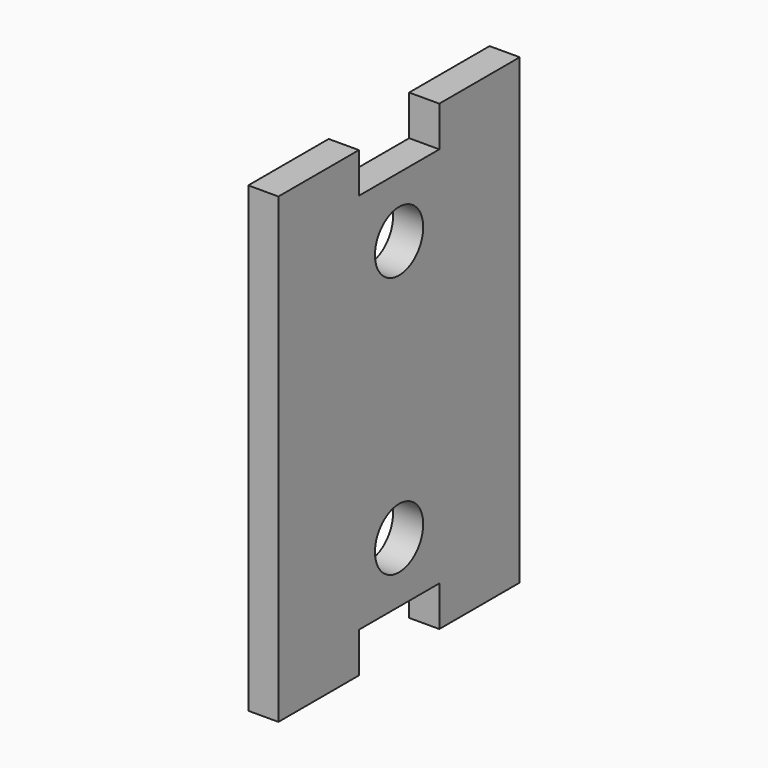
from build123d import *

# Parameters (mm, degrees)
F0_R     = 1.5
F1_DEPTH = 1.5


with BuildPart() as f1:
    # F0 (on Right) → F1 (new body)
    with BuildSketch(Plane.YZ):
        Polygon((7.5, -11.5), (7.5, 11.5), (2.5, 11.5), (2.5, 9.5), (0, 9.5), (-2.5, 9.5), (-2.5, 11.5), (-7.5, 11.5), (-7.5, -11.5), (-2.5, -11.5), (-2.5, -9.5), (0, -9.5), (2.5, -9.5), (2.5, -11.5), align=None)
        with Locations((0, -6.5)):
            Circle(F0_R, mode=Mode.SUBTRACT)
        with Locations((0, 6.5)):
            Circle(F0_R, mode=Mode.SUBTRACT)
    extrude(amount=F1_DEPTH)


solid = f1.part
